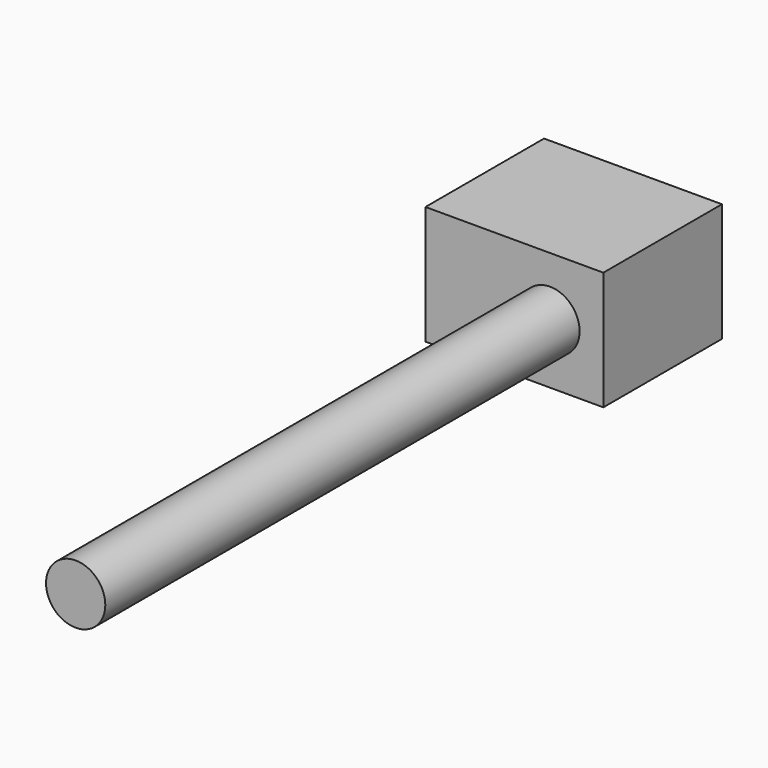
from build123d import *

# Parameters (mm, degrees)
F0_W     = 60
F0_H     = 40
F1_DEPTH = 50
F2_R     = 10
F3_DEPTH = 200


with BuildPart() as f1:
    # F0 (on Front) → F1 (new body)
    with BuildSketch(Plane.XZ):
        Rectangle(F0_W, F0_H)
    extrude(amount=F1_DEPTH)


with BuildPart() as f3:
    # F2 (on face) → F3 (new body)
    with BuildSketch(Plane.XZ.offset(50)):
        with Locations((12, 0)):
            Circle(F2_R)
    extrude(amount=F3_DEPTH)


solid = Compound([f1.part, f3.part])
